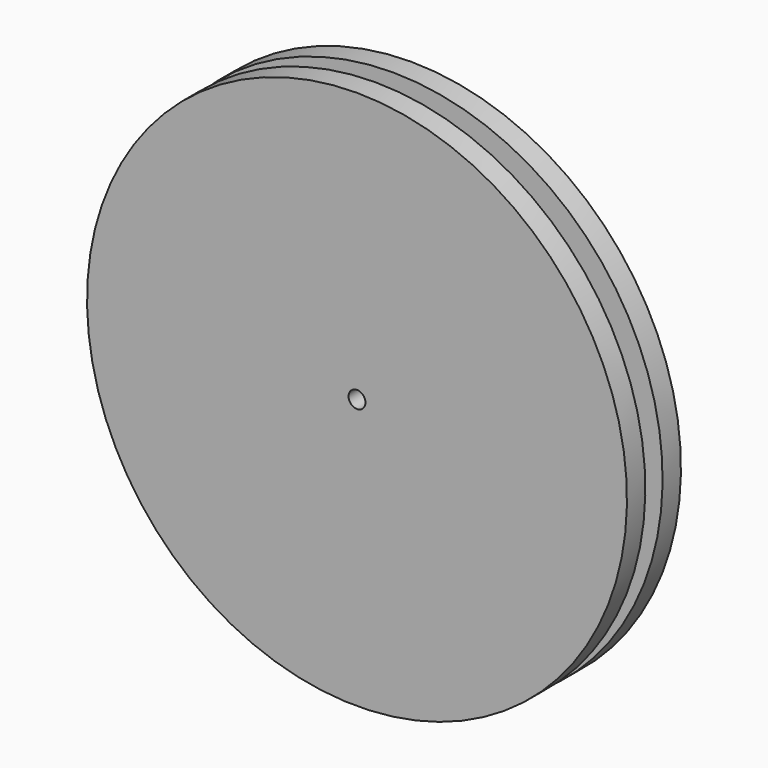
from build123d import *

# Parameters (mm, degrees)
F2_R     = 1.5875
F3_DEPTH = 12.701


with BuildPart() as f1:
    # F0 (on Right) → F1 (revolve)
    with BuildSketch(Plane.YZ):
        Polygon((0, 50.8), (0, 0), (12.7, 0), (12.7, 50.8), (8.382, 50.8), (8.382, 44.45), (4.318, 44.45), (4.318, 50.8), align=None)
    revolve(axis=Axis((0, 6.35, 0), (0, 1, 0)))

    # F2 (on face) → F3 (cut, through all)
    with BuildSketch(Plane.XZ):
        Circle(F2_R)
    extrude(amount=-F3_DEPTH, mode=Mode.SUBTRACT)


solid = f1.part
